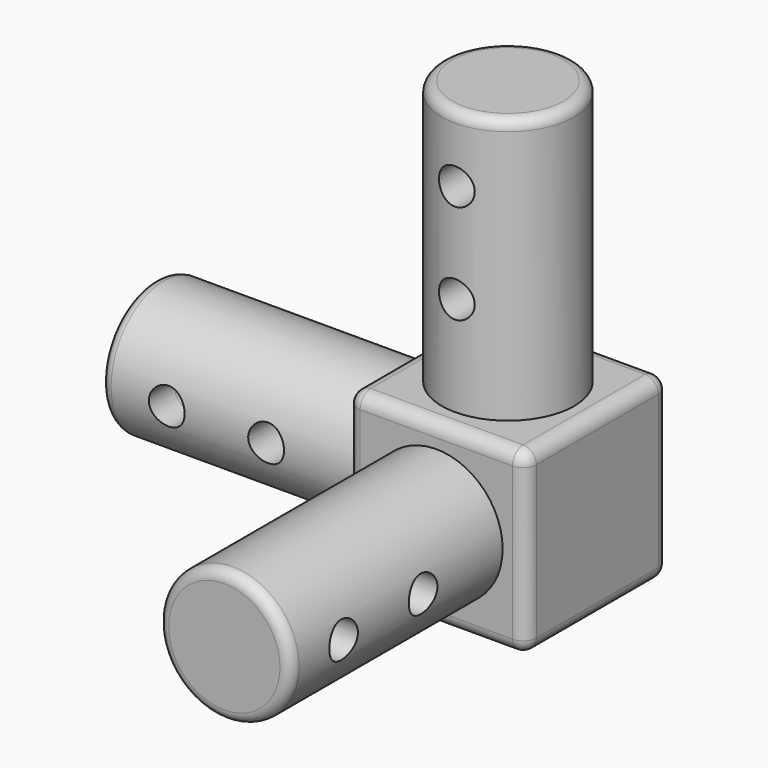
from build123d import *

# Parameters (mm, degrees)
F0_W      = 34.29
F0_H      = 34.29
F1_DEPTH  = 34.29
F2_R      = 12.7
F3_DEPTH  = 50.8
F4_R      = 12.7
F5_DEPTH  = 50.8
F6_R      = 12.7
F7_DEPTH  = 50.8
F8_R      = 3.429
F9_DEPTH  = 25.4
F10_R     = 3.429
F11_DEPTH = 25.4
F12_R     = 3.429
F13_DEPTH = 25.4
F14_R     = 2.032
F15_R     = 2.54


with BuildPart() as f1:
    # F0 (on Top) → F1 (new body)
    with BuildSketch(Plane.XY):
        with Locations((3.672889, 6.561064)):
            Rectangle(F0_W, F0_H)
    extrude(amount=F1_DEPTH)

    # F2 (on face) → F3 (join)
    with BuildSketch(Plane.XY.offset(34.29)):
        with Locations((3.682848, 6.561064)):
            Circle(F2_R)
    extrude(amount=F3_DEPTH)

    # F4 (on face) → F5 (join)
    with BuildSketch(Plane(origin=(-13.472111, 0, 0), x_dir=(0, -1, 0), z_dir=(-1, 0, 0))):
        with Locations((-6.561064, 17.145)):
            Circle(F4_R)
    extrude(amount=F5_DEPTH)

    # F6 (on face) → F7 (join)
    with BuildSketch(Plane.XZ.offset(10.583936)):
        with Locations((3.672889, 17.145)):
            Circle(F6_R)
    extrude(amount=F7_DEPTH)

    # F8 (on Front) → F9 (cut, symmetric)
    with BuildSketch(Plane.XZ):
        with Locations((3.672889, 53.34)):
            Circle(F8_R)
        with Locations((3.672889, 72.39)):
            Circle(F8_R)
    extrude(amount=F9_DEPTH, both=True, mode=Mode.SUBTRACT)

    # F10 (on Right) → F11 (cut, symmetric)
    with BuildSketch(Plane.YZ):
        with Locations((-29.633936, 17.145)):
            Circle(F10_R)
        with Locations((-48.683936, 17.145)):
            Circle(F10_R)
    extrude(amount=F11_DEPTH, both=True, mode=Mode.SUBTRACT)

    # F12 (on Front) → F13 (cut, symmetric)
    with BuildSketch(Plane.XZ):
        with Locations((-51.572111, 17.145)):
            Circle(F12_R)
        with Locations((-32.522111, 17.145)):
            Circle(F12_R)
    extrude(amount=F13_DEPTH, both=True, mode=Mode.SUBTRACT)

    # F14
    f14_edges = [f1.edges().sort_by_distance(p)[0] for p in [
        (-9.017152, 6.561064, 85.09),
        (-9.027111, -61.383936, 17.145),
        (-64.272111, 19.261064, 17.145),
    ]]
    fillet(f14_edges, radius=F14_R)

    # F15
    f15_edges = [f1.edges().sort_by_distance(p)[0] for p in [
        (20.817889, 23.706064, 17.145),
        (20.817889, 6.561064, 34.29),
        (20.817889, -10.583936, 17.145),
        (20.817889, 6.561064, 0),
        (3.672889, 23.706064, 0),
        (3.672889, 23.706064, 34.29),
        (-13.472111, 23.706064, 17.145),
        (-13.472111, 6.561064, 0),
        (3.672889, -10.583936, 0),
        (-13.472111, 6.561064, 34.29),
        (-13.472111, -10.583936, 17.145),
        (3.672889, -10.583936, 34.29),
    ]]
    fillet(f15_edges, radius=F15_R)


solid = f1.part
